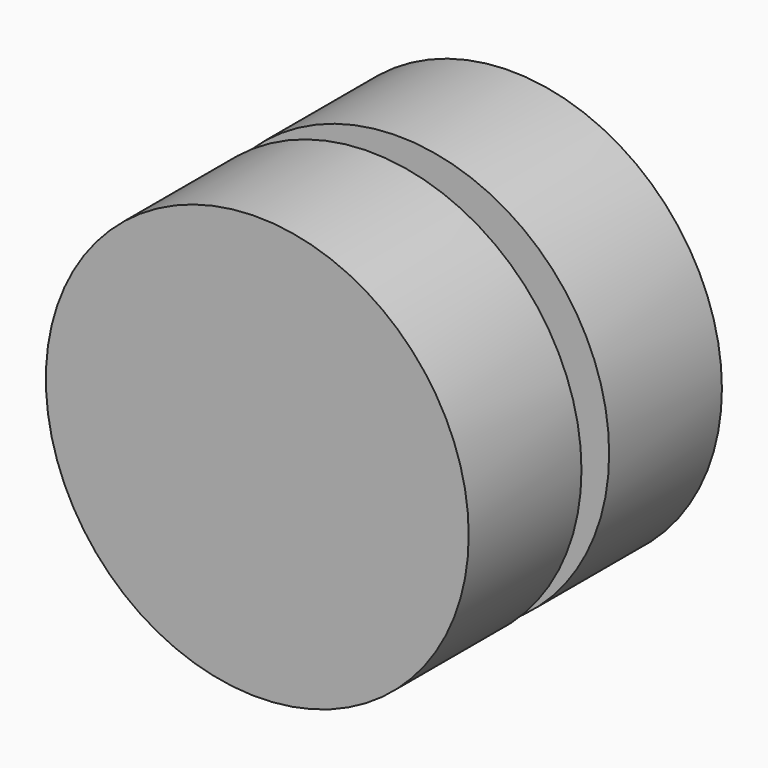
from build123d import *

# Parameters (mm, degrees)
F0_R     = 38.007722
F1_DEPTH = 12.7
F2_R     = 12.7
F3_DEPTH = 6.35
F4_R     = 38.1
F5_DEPTH = 25.4


with BuildPart() as f1:
    # F0 (on Front) → F1 (new body, symmetric)
    with BuildSketch(Plane.XZ):
        Circle(F0_R)
    extrude(amount=F1_DEPTH, both=True)


with BuildPart() as f3:
    # F2 (on face) → F3 (new body, symmetric)
    with BuildSketch(Plane.XZ.offset(12.7)):
        Circle(F2_R)
    extrude(amount=F3_DEPTH, both=True)

    # F4 (on face) → F5 (join)
    with BuildSketch(Plane.XZ.offset(19.05)):
        Circle(F4_R)
    extrude(amount=F5_DEPTH)


solid = Compound([f1.part, f3.part])
